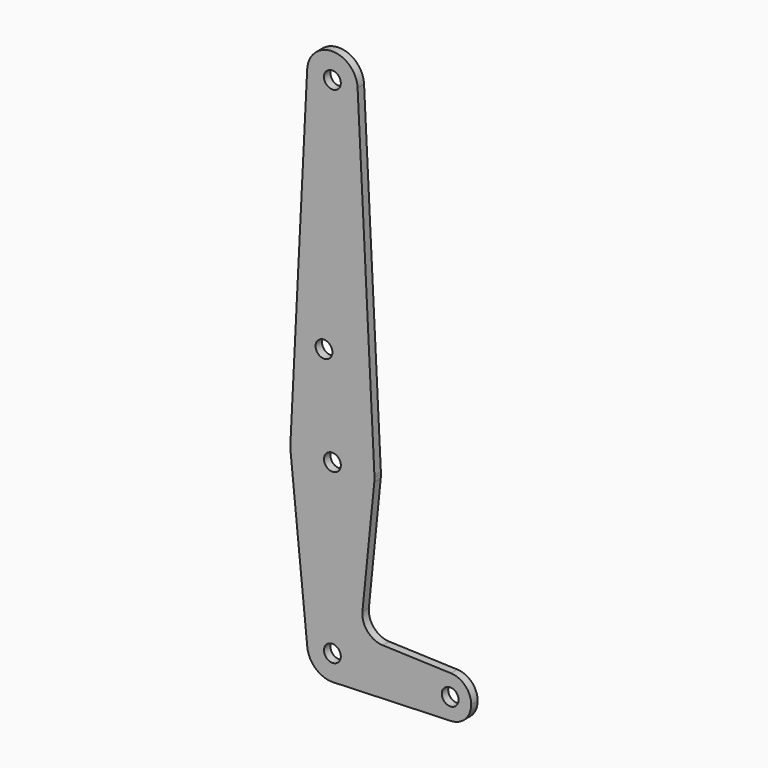
from build123d import *

# Parameters (mm, degrees)
F0_R     = 3.175
F1_DEPTH = 3.048


with BuildPart() as f1:
    # F0 (on Front) → F1 (new body)
    with BuildSketch(Plane.XZ):
        with BuildLine():
            ThreePointArc((0.340179, -9.518923), (6.854408, -6.613827), (9.525, 0))
            ThreePointArc((9.525, 0), (-0.475364, 9.513131), (-9.477552, -0.949544))
            ThreePointArc((-9.477552, -0.949544), (-6.263503, -7.175943), (0.340179, -9.518923))
        make_face()
        Circle(F0_R, mode=Mode.SUBTRACT)
        with BuildLine():
            ThreePointArc((-9.477552, -0.949544), (-0.475364, 9.513131), (9.525, 0))
            ThreePointArc((9.525, 0), (6.854408, -6.613827), (0.340179, -9.518923))
            Line((0.340179, -9.518923), (44.733482, -7.932436))
            ThreePointArc((44.733482, -7.932436), (36.5125, 0), (44.733482, 7.932436))
            Line((44.733482, 7.932436), (18.9676, 8.853234))
            ThreePointArc((18.9676, 8.853234), (13.2612, 11.571359), (11.341187, 17.593382))
            Line((11.341187, 17.593382), (15.795426, 61.9125))
            ThreePointArc((15.795426, 61.9125), (0.393046, 47.629866), (-15.697475, 61.132534))
            Line((-15.697475, 61.132534), (-9.477552, -0.949544))
        make_face()
        with BuildLine():
            Line((-15.855144, 62.70625), (-15.697475, 61.132534))
            ThreePointArc((-15.697475, 61.132534), (0.393046, 47.629866), (15.795426, 61.9125))
            ThreePointArc((15.795426, 61.9125), (15.855094, 62.705253), (15.875, 63.5))
            ThreePointArc((15.875, 63.5), (15.870035, 63.896999), (15.855144, 64.29375))
            ThreePointArc((15.855144, 64.29375), (0, 79.375), (-15.855144, 64.29375))
            ThreePointArc((-15.855144, 64.29375), (-15.875, 63.5), (-15.855144, 62.70625))
        make_face()
        with Locations((0, 63.5)):
            Circle(F0_R, mode=Mode.SUBTRACT)
        with BuildLine():
            ThreePointArc((-15.855144, 62.70625), (-15.79592, 61.917427), (-15.697475, 61.132534))
            Line((-15.697475, 61.132534), (-15.855144, 62.70625))
        make_face()
        with BuildLine():
            ThreePointArc((44.733482, 7.932436), (36.5125, 0), (44.733482, -7.932436))
            ThreePointArc((44.733482, -7.932436), (50.162007, -5.511523), (52.3875, 0))
            ThreePointArc((52.3875, 0), (50.162007, 5.511523), (44.733482, 7.932436))
        make_face()
        with Locations((44.45, 0)):
            Circle(F0_R, mode=Mode.SUBTRACT)
        with BuildLine():
            Line((-9.513086, 190.97625), (-15.855144, 64.29375))
            ThreePointArc((-15.855144, 64.29375), (0, 79.375), (15.855144, 64.29375))
            Line((15.855144, 64.29375), (9.513086, 190.97625))
            ThreePointArc((9.513086, 190.97625), (9.522021, 190.738199), (9.525, 190.5))
            ThreePointArc((9.525, 190.5), (-0.238199, 180.977979), (-9.513086, 190.97625))
        make_face()
        with Locations((-3.175, 100.0252)):
            Circle(F0_R, mode=Mode.SUBTRACT)
        with BuildLine():
            ThreePointArc((9.513086, 190.97625), (0, 200.025), (-9.513086, 190.97625))
            ThreePointArc((-9.513086, 190.97625), (-0.238199, 180.977979), (9.525, 190.5))
            ThreePointArc((9.525, 190.5), (9.522021, 190.738199), (9.513086, 190.97625))
        make_face()
        with Locations((0, 190.5)):
            Circle(F0_R, mode=Mode.SUBTRACT)
    extrude(amount=F1_DEPTH)


solid = f1.part
